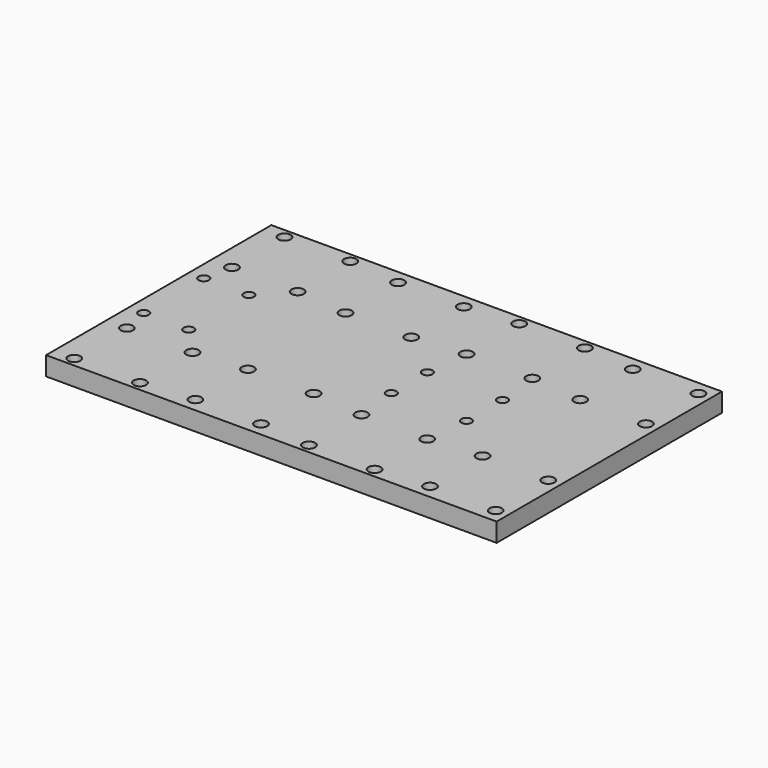
from build123d import *

# Parameters (mm, degrees)
F0_W     = 240
F0_H     = 150
F1_DEPTH = 10
F2_D     = 6.6
F3_D     = 6.6
F4_D     = 5.5
F5_D     = 5.5


with BuildPart() as f1:
    # F0 (on Top) → F1 (new body)
    with BuildSketch(Plane.XY):
        with Locations((3.8884611577, 2.5630567968)):
            Rectangle(F0_W, F0_H)
    extrude(amount=F1_DEPTH)

    # F2 (through all)
    with Locations(Plane(origin=(0, 0, 0), x_dir=(1, 0, 0), z_dir=(0, 0, -1))):
        with Locations((-7.6115388423, 29.9369432032), (-42.6115388423, -35.0630567968), (-42.6115388423, 29.9369432032), (-42.6115388423, 64.9369432032), (-7.6115388423, -35.0630567968), (-42.6115388423, -70.0630567968), (82.3884611577, -35.0630567968), (-7.6115388423, -70.0630567968), (82.3884611577, 29.9369432032), (82.3884611577, 64.9369432032), (117.3884611577, 29.9369432032), (117.3884611577, -35.0630567968), (82.3884611577, -70.0630567968), (117.3884611577, -70.0630567968), (117.3884611577, 64.9369432032), (-7.6115388423, 64.9369432032)):
            Hole(F2_D / 2)

    # F3 (through all)
    with Locations(Plane(origin=(0, 0, 0), x_dir=(1, 0, 0), z_dir=(0, 0, -1))):
        with Locations((-70.1115388423, 32.4369432032), (-70.1115388423, 67.4369432032), (-70.1115388423, -72.5630567968), (-105.1115388423, -37.5630567968), (-105.1115388423, -72.5630567968), (-105.1115388423, 67.4369432032), (-105.1115388423, 32.4369432032), (-70.1115388423, -37.5630567968), (19.8884611577, -72.5630567968), (54.8884611577, -72.5630567968), (54.8884611577, -37.5630567968), (19.8884611577, -37.5630567968), (54.8884611577, 32.4369432032), (19.8884611577, 67.4369432032), (54.8884611577, 67.4369432032), (19.8884611577, 32.4369432032)):
            Hole(F3_D / 2)

    # F4 (through all)
    with Locations(Plane(origin=(0, 0, 0), x_dir=(1, 0, 0), z_dir=(0, 0, -1))):
        with Locations((17.3884611577, -14.5630567968), (17.3884611577, 9.4369432032), (57.3884611577, 9.4369432032), (57.3884611577, -14.5630567968)):
            Hole(F4_D / 2)

    # F5 (through all)
    with Locations(Plane(origin=(0, 0, 0), x_dir=(1, 0, 0), z_dir=(0, 0, -1))):
        with Locations((-108.1115388423, -22.5630567968), (-84.1115388423, -22.5630567968), (-108.1115388423, 17.4369432032), (-84.1115388423, 17.4369432032)):
            Hole(F5_D / 2)


solid = f1.part
